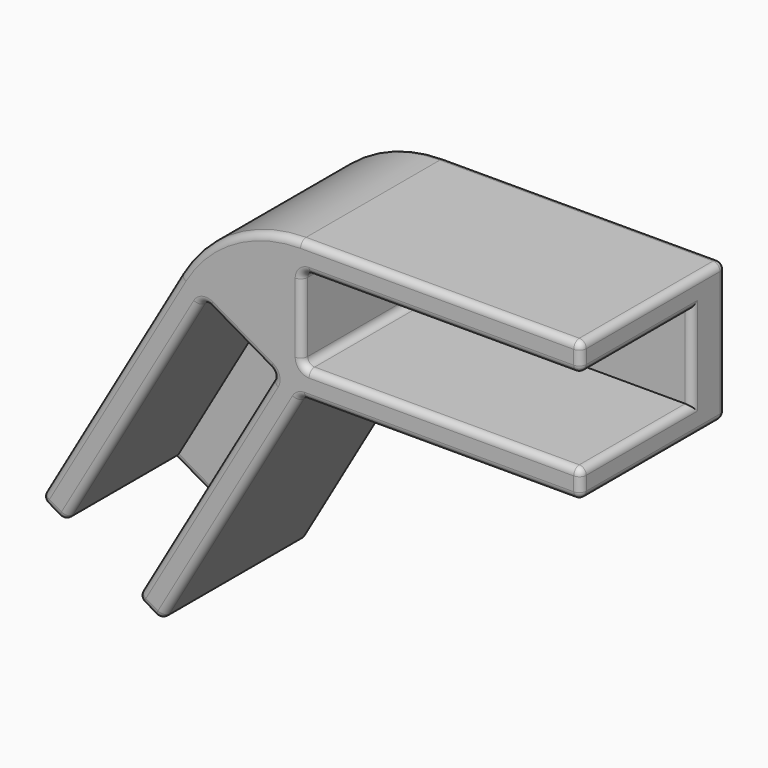
from build123d import *

# Parameters (mm, degrees)
F1_DEPTH = 12.7
F3_DEPTH = 3.81
F4_R     = 0.635


with BuildPart() as f1:
    # F0 (on Front) → F1 (new body)
    with BuildSketch(Plane.XZ):
        with BuildLine():
            Line((4.445, 3.81), (29.21, 3.81))
            Line((29.21, 3.81), (29.21, 6.35))
            Line((29.21, 6.35), (3.6661742094, 6.35))
            ThreePointArc((3.6661742094, 6.35), (-2.6838257906, 4.6485226281), (-7.3323484187, 0))
            Line((-7.3323484187, 0), (-20.104261314, -22.1216020445))
            Line((-20.104261314, -22.1216020445), (-17.9045567884, -23.3916020445))
            Line((-17.9045567884, -23.3916020445), (-5.5220567884, -1.9444829198))
            ThreePointArc((-5.5220567884, -1.9444829198), (-5.1364807507, -1.6486200201), (-4.654630657, -1.7120567884))
            Line((-4.654630657, -1.7120567884), (0.844630657, -4.8870567884))
            ThreePointArc((0.844630657, -4.8870567884), (1.1404935567, -5.2726328262), (1.0770567884, -5.7544829198))
            Line((1.0770567884, -5.7544829198), (-11.3054432116, -27.2016020445))
            Line((-11.3054432116, -27.2016020445), (-9.105738686, -28.4716020445))
            Line((-9.105738686, -28.4716020445), (3.6661742094, -6.35))
            Line((3.6661742094, -6.35), (29.21, -6.35))
            Line((29.21, -6.35), (29.21, -3.81))
            Line((29.21, -3.81), (4.445, -3.81))
            ThreePointArc((4.445, -3.81), (3.9959871939, -3.6240128061), (3.81, -3.175))
            Line((3.81, -3.175), (3.81, 3.175))
            ThreePointArc((3.81, 3.175), (3.9959871939, 3.6240128061), (4.445, 3.81))
        make_face()
    extrude(amount=F1_DEPTH)

    # F2 (on face) → F3 (join)
    with BuildSketch(Plane(origin=(0, 0, 0), x_dir=(-1, 0, 0), z_dir=(0, 1, 0))):
        with BuildLine():
            Line((-3.6661742094, 6.35), (-29.21, 6.35))
            Line((-29.21, 6.35), (-29.21, -6.35))
            Line((-29.21, -6.35), (-3.6661742094, -6.35))
            Line((-3.6661742094, -6.35), (9.105738686, -28.4716020445))
            Line((9.105738686, -28.4716020445), (11.3054432116, -27.2016020445))
            Line((11.3054432116, -27.2016020445), (20.104261314, -22.1216020445))
            Line((20.104261314, -22.1216020445), (7.3323484187, 0))
            ThreePointArc((7.3323484187, 0), (2.6838257906, 4.6485226281), (-3.6661742094, 6.35))
        make_face()
    extrude(amount=F3_DEPTH)

    # F4
    f4_edges = [f1.edges().sort_by_distance(p)[0] for p in [
        (-2.719782, -12.7, -17.410801),
        (16.438087, -12.7, -6.35),
        (29.21, -12.7, -5.08),
        (16.8275, -12.7, -3.81),
        (3.995987, -12.7, -3.624013),
        (3.81, -12.7, 0),
        (3.995987, -12.7, 3.624013),
        (16.8275, -12.7, 3.81),
        (29.21, -12.7, 5.08),
        (16.438087, -12.7, 6.35),
        (-2.683826, -12.7, 4.648523),
        (-13.718305, -12.7, -11.060801),
        (-19.004409, -12.7, -22.756602),
        (-11.713307, -12.7, -12.668042),
        (-5.136481, -12.7, -1.64862),
        (-1.905, -12.7, -3.299557),
        (1.140494, -12.7, -5.272633),
        (-5.114193, -12.7, -16.478042),
        (-10.205591, -12.7, -27.836602),
        (29.21, -6.35, -3.81),
        (29.21, 0, 0),
        (29.21, -6.35, 3.81),
        (29.21, -4.445, 6.35),
        (29.21, 3.81, 0),
        (29.21, -4.445, -6.35),
        (-11.305443, -6.35, -27.201602),
        (-9.105739, -4.445, -28.471602),
        (-14.605, 3.81, -25.296602),
        (-20.104261, -4.445, -22.121602),
        (-17.904557, -6.35, -23.391602),
        (-14.605, 0, -25.296602),
        (16.438087, 3.81, 6.35),
        (16.438087, 3.81, -6.35),
        (-2.719782, 3.81, -17.410801),
        (-13.718305, 3.81, -11.060801),
        (-2.683826, 3.81, 4.648523),
        (3.666174, -4.445, -6.35),
    ]]
    fillet(f4_edges, radius=F4_R)


solid = f1.part
